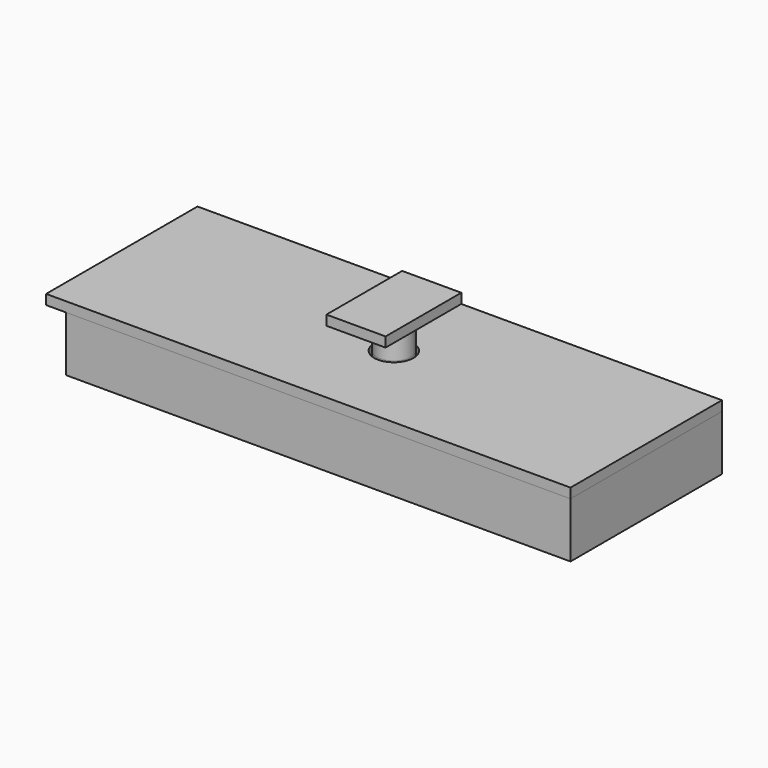
from build123d import *

# Parameters (mm, degrees)
F0_W           = 76.2
F0_H           = 25.4
F1_DEPTH       = 1.016
F2_W           = 81.28
F2_H           = 30.48
F2_W_2         = 77.03312
F2_H_2         = 26.67
F3_DEPTH       = 6.35
F3_DEPTH_BACK  = 2.54
F4_W           = 77.03312
F4_H           = 26.67
F5_DEPTH       = 1.524
F6_W           = 84.455
F6_H           = 30.48
F7_DEPTH       = 1.5875
F8_W           = 76.2
F8_H           = 25.4
F9_DEPTH       = 0.79375
F10_R          = 3.175
F11_DEPTH      = 2.38125
F12_R          = 2.778125
F13_DEPTH      = 7.14375
F13_DEPTH_BACK = 5.08
F14_W          = 9.525
F14_H          = 15.24
F15_DEPTH      = 1.5875
F16_W          = 31.75
F16_H          = 22.86
F16_R          = 2.921
F17_DEPTH      = 1.524


with BuildPart() as f1:
    # F0 (on Top) → F1 (new body)
    with BuildSketch(Plane.XY):
        Rectangle(F0_W, F0_H)
    extrude(amount=F1_DEPTH)


with BuildPart() as f3:
    # F2 (on face) → F3 (new body, two sides)
    with BuildSketch(Plane.XY.offset(1.016)) as f3_sk:
        Rectangle(F2_W, F2_H)
        Rectangle(F2_W_2, F2_H_2, mode=Mode.SUBTRACT)
    extrude(amount=F3_DEPTH)
    extrude(f3_sk.sketch, amount=-F3_DEPTH_BACK)

    # F4 (on face) → F5 (join, through all)
    with BuildSketch(Plane(origin=(0, 0, -1.524), x_dir=(1, 0, 0), z_dir=(0, 0, -1))):
        Rectangle(F4_W, F4_H)
    extrude(amount=-F5_DEPTH)

    # F16 (on face) → F17 (cut, through all)
    with BuildSketch(Plane(origin=(0, 0, -1.524), x_dir=(1, 0, 0), z_dir=(0, 0, -1))):
        with Locations((20.955, 0)):
            Rectangle(F16_W, F16_H)
        with Locations((-20.955, 0)):
            Rectangle(F16_W, F16_H)
        Circle(F16_R)
    extrude(amount=-F17_DEPTH, mode=Mode.SUBTRACT)


with BuildPart() as f7:
    # F6 (on face) → F7 (new body)
    with BuildSketch(Plane.XY.offset(7.366)):
        with Locations((-1.5875, 0)):
            Rectangle(F6_W, F6_H)
    extrude(amount=F7_DEPTH)

    # F8 (on face) → F9 (join)
    with BuildSketch(Plane(origin=(0, 0, 7.366), x_dir=(1, 0, 0), z_dir=(0, 0, -1))):
        Rectangle(F8_W, F8_H)
    extrude(amount=F9_DEPTH)

    # F10 (on face) → F11 (cut, through all)
    with BuildSketch(Plane.XY.offset(8.9535)):
        Circle(F10_R)
    extrude(amount=-F11_DEPTH, mode=Mode.SUBTRACT)


with BuildPart() as f13:
    # F12 (on face) → F13 (new body, two sides)
    with BuildSketch(Plane.XY.offset(8.9535)) as f13_sk:
        Circle(F12_R)
    extrude(amount=-F13_DEPTH)
    extrude(f13_sk.sketch, amount=F13_DEPTH_BACK)

    # F14 (on face) → F15 (join)
    with BuildSketch(Plane.XY.offset(14.0335)):
        Rectangle(F14_W, F14_H)
    extrude(amount=F15_DEPTH)


solid = Compound([f1.part, f3.part, f7.part, f13.part])
